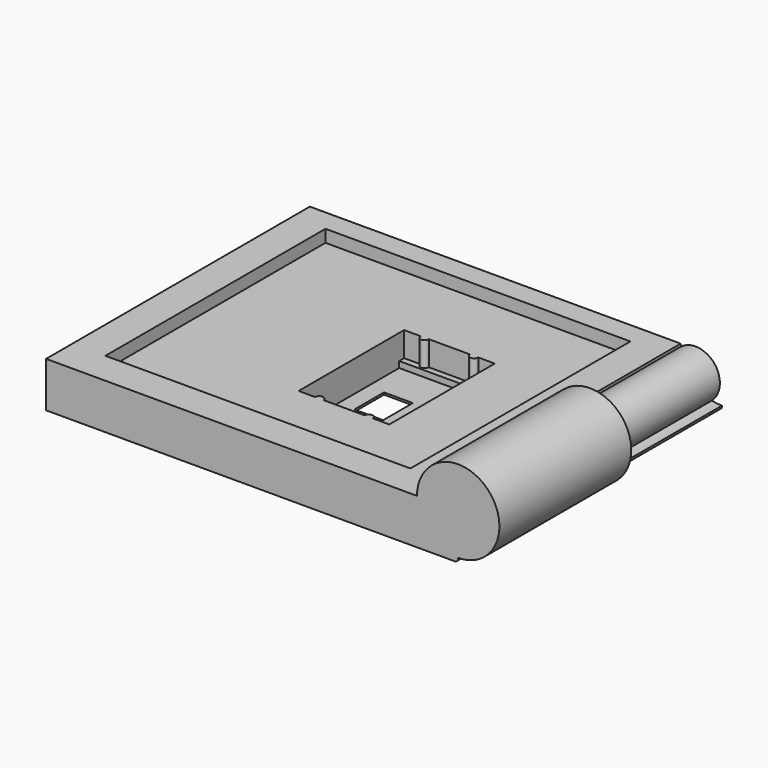
from build123d import *

# Parameters (mm, degrees)
SKETCH_W        = 50
SKETCH_H        = 40
PAD_DEPTH       = 5.5
SKETCH004_W     = 3.5
SKETCH004_H     = 4.5
POCKET_DEPTH    = 5.501
SKETCH005_W     = 11
SKETCH005_H     = 14
POCKET001_DEPTH = 5.25
POCKET002_DEPTH = 4.5
SKETCH008_R     = 5
PAD001_DEPTH    = 20
SKETCH009_R     = 5
HOLE_DEPTH      = 20
FILLET_R        = 0.45
SKETCH010_W     = 37
SKETCH010_H     = 33.369954
POCKET003_DEPTH = 1.5
SKETCH012_R     = 2.95
PAD002_DEPTH    = 16


with BuildPart() as part:
    # Sketch → Pad (new body)
    with BuildSketch(Plane.XY):
        Rectangle(SKETCH_W, SKETCH_H)
    extrude(amount=PAD_DEPTH)

    # Sketch004 (on Face6 of Pad) → Pocket (cut, through all)
    with BuildSketch(Plane.XY.offset(5.5)):
        with Locations((-0.25, 0.25)):
            Rectangle(SKETCH004_W, SKETCH004_H)
    extrude(amount=-POCKET_DEPTH, mode=Mode.SUBTRACT)

    # Sketch005 (on Face5 of Pocket) → Pocket001 (cut)
    with BuildSketch(Plane.XY.offset(5.5)):
        with Locations((1.5, 0.3)):
            Rectangle(SKETCH005_W, SKETCH005_H)
    extrude(amount=-POCKET001_DEPTH, mode=Mode.SUBTRACT)

    # Sketch007 (on Face5 of Pocket001) → Pocket002 (cut)
    with BuildSketch(Plane.XY.offset(5.5)):
        with BuildLine():
            Line((-4, 8.05), (-2, 8.05))
            ThreePointArc((-2, 8.05), (-1.5, 7.550047), (-1, 8.05))
            Line((-1, 8.05), (4, 8.05))
            ThreePointArc((4, 8.05), (4.5, 7.54996), (5, 8.05))
            Line((5, 8.05), (7, 8.05))
            Line((7, 8.05), (7, -7.95))
            Line((7, -7.95), (4.999901, -7.95))
            ThreePointArc((4.999901, -7.95), (4.5, -7.459951), (4.000099, -7.95))
            Line((4.000099, -7.95), (-1, -7.95))
            ThreePointArc((-1, -7.95), (-1.5, -7.45043), (-2, -7.95))
            Line((-2, -7.95), (-4, -7.95))
            Line((-4, -7.95), (-4, 8.05))
        make_face()
    extrude(amount=-POCKET002_DEPTH, mode=Mode.SUBTRACT)

    # Sketch008 (on Face6 of Pocket002) → Pad001 (join)
    with BuildSketch(Plane.XZ.offset(20)):
        with Locations((25, 5.5)):
            Circle(SKETCH008_R)
    extrude(amount=-PAD001_DEPTH)

    # Sketch009 (on Face1 of Pad001) → Hole (cut)
    with BuildSketch(Plane(origin=(0, 20, 0), x_dir=(-1, 0, 0), z_dir=(0, 1, 0))):
        with Locations((-25, 5.5)):
            Circle(SKETCH009_R)
    extrude(amount=-HOLE_DEPTH, mode=Mode.SUBTRACT)

    # Fillet
    fillet_edges = [part.edges().sort_by_distance(p)[0] for p in [
        (25, 0, 0),
    ]]
    fillet(fillet_edges, radius=FILLET_R)

    # Sketch010 (on Face6 of Fillet) → Pocket003 (cut)
    with BuildSketch(Plane.XY.offset(5.5)):
        with Locations((-2.5, 0.684977)):
            Rectangle(SKETCH010_W, SKETCH010_H)
    extrude(amount=-POCKET003_DEPTH, mode=Mode.SUBTRACT)

    # Sketch012 (on Face22 of Pocket003) → Pad002 (join)
    with BuildSketch(Plane(origin=(0, 0, 0), x_dir=(-1, 0, 0), z_dir=(0, 1, 0))):
        with Locations((-25.000006, 5.5)):
            Circle(SKETCH012_R)
    extrude(amount=PAD002_DEPTH)


solid = part.part
